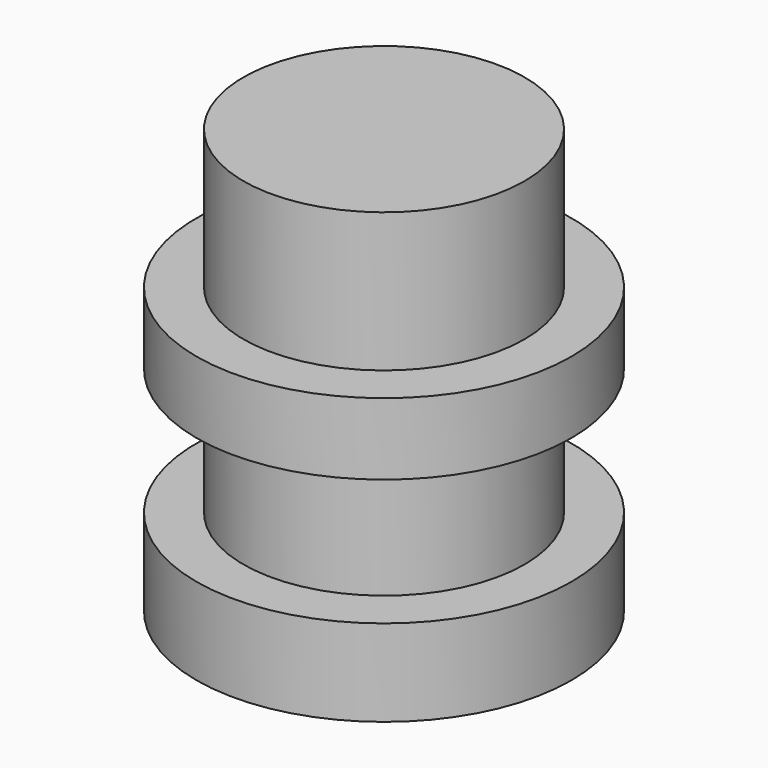
from build123d import *

# Parameters (mm, degrees)
CYLINDER_R        = 8
CYLINDER_DEPTH    = 3.7
CYLINDER001_R     = 8
CYLINDER001_DEPTH = 3.06
CYLINDER002_R     = 6
CYLINDER002_DEPTH = 18.1


with BuildPart() as cilindro:
    # Cylinder → Cylinder (new body)
    with BuildSketch(Plane.XY):
        Circle(CYLINDER_R)
    extrude(amount=CYLINDER_DEPTH)


with BuildPart() as cilindro002:
    # Cylinder001 → Cylinder001 (new body)
    with BuildSketch(Plane(origin=(0, -5e-06, 9.1), x_dir=(1, 0, 0), z_dir=(0, 0, 1))):
        Circle(CYLINDER001_R)
    extrude(amount=CYLINDER001_DEPTH)


with BuildPart() as cilindro001:
    # Cylinder002 → Cylinder002 (new body)
    with BuildSketch(Plane.XY):
        Circle(CYLINDER002_R)
    extrude(amount=CYLINDER002_DEPTH)


solid = Compound([cilindro.part, cilindro002.part, cilindro001.part])
